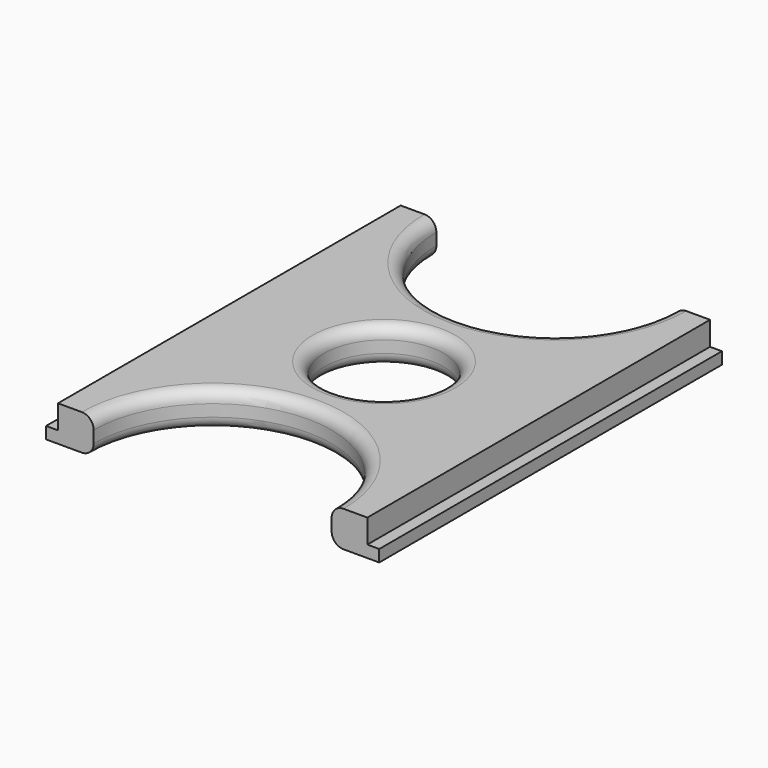
from build123d import *

# Parameters (mm, degrees)
F0_W     = 177.8
F0_H     = 228.6
F1_DEPTH = 19.05
F2_W     = 6.35
F2_H     = 12.7
F3_DEPTH = 254
F4_R     = 63.5
F4_R_2   = 31.75
F5_DEPTH = 25.4
F6_R     = 6.35


with BuildPart() as f1:
    # F0 (on Top) → F1 (new body)
    with BuildSketch(Plane.XY):
        Rectangle(F0_W, F0_H)
    extrude(amount=F1_DEPTH)

    # F2 (on face) → F3 (cut)
    with BuildSketch(Plane.XZ.offset(114.3)):
        with Locations((85.725, 12.7)):
            Rectangle(F2_W, F2_H)
        with Locations((-85.725, 12.7)):
            Rectangle(F2_W, F2_H)
    extrude(amount=-F3_DEPTH, mode=Mode.SUBTRACT)

    # F4 (on face) → F5 (cut)
    with BuildSketch(Plane.XY.offset(19.05)):
        with Locations((0, -114.3)):
            Circle(F4_R)
        with Locations((0, 114.3)):
            Circle(F4_R)
        Circle(F4_R_2)
    extrude(amount=-F5_DEPTH, mode=Mode.SUBTRACT)

    # F6
    f6_edges = [f1.edges().sort_by_distance(p)[0] for p in [
        (0, 50.8, 0),
        (-31.75, 0, 0),
        (0, -50.8, 0),
        (0, 50.8, 19.05),
        (-31.75, 0, 19.05),
        (0, -50.8, 19.05),
    ]]
    fillet(f6_edges, radius=F6_R)


solid = f1.part
